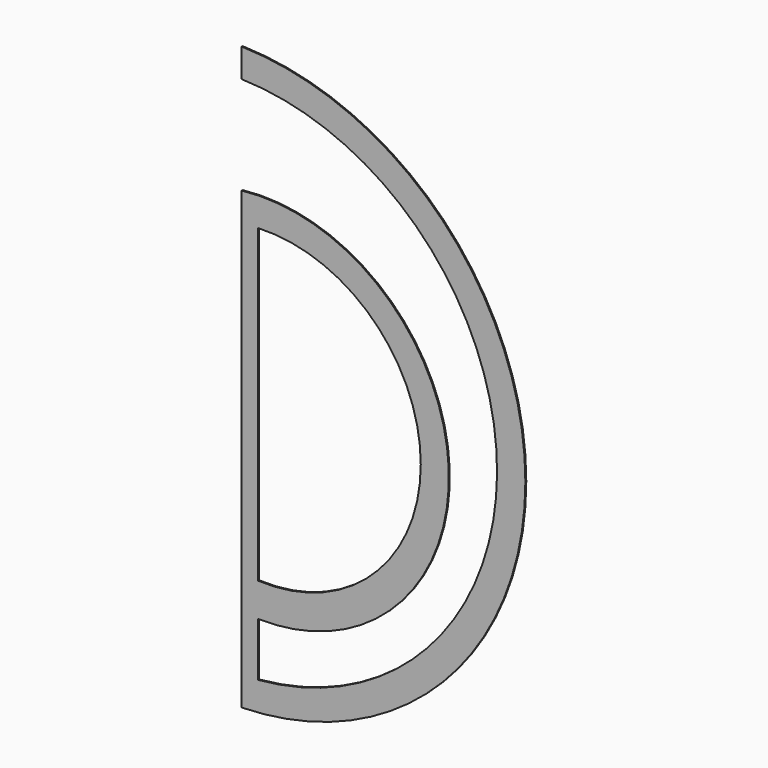
from build123d import *

# Parameters (mm, degrees)
F1_DEPTH = 0.01


with BuildPart() as f1:
    # F0 (on Front) → F1 (new body)
    with BuildSketch(Plane.XZ):
        with BuildLine():
            Line((0, -1.782178), (0, -2.26145))
            ThreePointArc((0, -2.26145), (0.070633, -2.258465), (0.141138, -2.253267))
            Line((0.141138, -2.253267), (0.141138, -1.791667))
            ThreePointArc((0.141138, -1.791667), (0.070464, -1.788481), (0, -1.782178))
        make_face()
        with BuildLine():
            ThreePointArc((0.141138, -2.253267), (0.070633, -2.258465), (0, -2.26145))
            Line((0, -2.26145), (0, -2.508251))
            ThreePointArc((0, -2.508251), (2.437472, -0.008251), (0, 2.491749))
            Line((0, 2.491749), (0, 2.245354))
            ThreePointArc((0, 2.245354), (2.193245, 0.06264), (0.141138, -2.253267))
        make_face()
        with BuildLine():
            Line((0, -1.488855), (0, -1.782178))
            ThreePointArc((0, -1.782178), (0.070464, -1.788481), (0.141138, -1.791667))
            Line((0.141138, -1.791667), (0.141138, -1.502971))
            ThreePointArc((0.141138, -1.502971), (0.070381, -1.497788), (0, -1.488855))
        make_face()
        with BuildLine():
            Line((0.141138, -1.502971), (0.141138, -1.791667))
            ThreePointArc((0.141138, -1.791667), (1.778709, -0.119041), (0, 1.40264))
            Line((0, 1.40264), (0, 1.150845))
            ThreePointArc((0, 1.150845), (0.070381, 1.159778), (0.141138, 1.164961))
            ThreePointArc((0.141138, 1.164961), (1.538696, -0.169005), (0.141138, -1.502971))
        make_face()
        with BuildLine():
            Line((0, 1.150845), (0, -1.488855))
            ThreePointArc((0, -1.488855), (0.070381, -1.497788), (0.141138, -1.502971))
            Line((0.141138, -1.502971), (0.141138, 1.164961))
            ThreePointArc((0.141138, 1.164961), (0.070381, 1.159778), (0, 1.150845))
        make_face()
    extrude(amount=F1_DEPTH)


solid = f1.part
